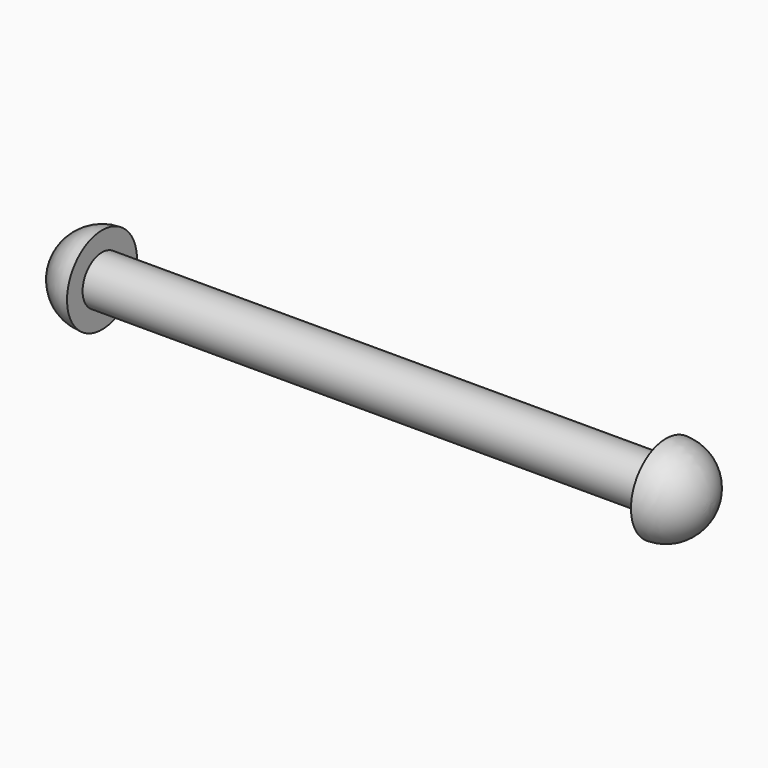
from build123d import *


with BuildPart() as f1:
    # F0 (on Front) → F1 (revolve)
    with BuildSketch(Plane.XZ):
        with BuildLine():
            Line((-79.375, 3.175), (-79.375, 5.715))
            ThreePointArc((-79.375, 5.715), (-83.416115, 4.041115), (-85.09, 0))
            Line((-85.09, 0), (0, 0))
            ThreePointArc((0, 0), (-1.673885, 4.041115), (-5.715, 5.715))
            Line((-5.715, 5.715), (-5.715, 3.175))
            Line((-5.715, 3.175), (-79.375, 3.175))
        make_face()
    revolve(axis=Axis((8.346166, 0, 0), (1, 0, 0)))


solid = f1.part
